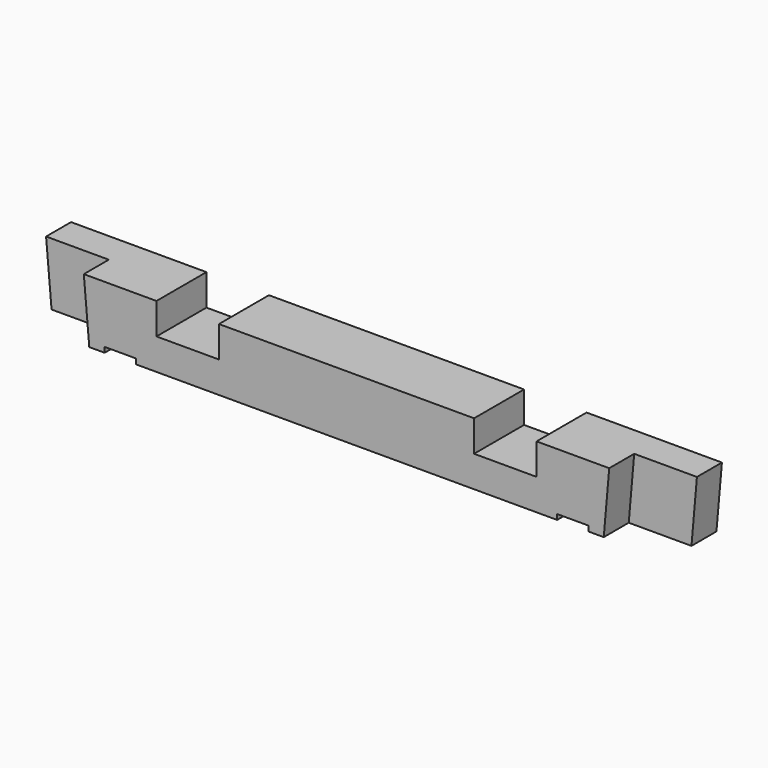
from build123d import *

# Parameters (mm, degrees)
F1_DEPTH  = 38.1
F3_DEPTH  = 19.05
F5_DEPTH  = 19.05
F6_W      = 38.1
F6_H      = 19.05
F7_DEPTH  = 38.1
F8_W      = 19.05
F8_H      = 3.175
F9_DEPTH  = 38.1
F10_W     = 19.05
F10_H     = 3.175
F11_DEPTH = 38.1
F12_W     = 38.1
F12_H     = 19.05
F13_DEPTH = 38.1


with BuildPart() as f1:
    # F0 (on Front) → F1 (new body)
    with BuildSketch(Plane.XZ):
        Polygon((396.875, 0), (0, 0), (3.333318, -38.1), (393.541682, -38.1), align=None)
    extrude(amount=F1_DEPTH)

    # F2 (on face) → F3 (cut)
    with BuildSketch(Plane.XZ.offset(38.1)):
        Polygon((396.875, 0), (358.629464, 0), (355.296146, -38.1), (393.541682, -38.1), align=None)
    extrude(amount=-F3_DEPTH, mode=Mode.SUBTRACT)

    # F4 (on face) → F5 (cut)
    with BuildSketch(Plane.XZ.offset(38.1)):
        Polygon((41.578854, -38.1), (38.245536, 0), (0, 0), (3.333318, -38.1), align=None)
    extrude(amount=-F5_DEPTH, mode=Mode.SUBTRACT)

    # F6 (on face) → F7 (cut)
    with BuildSketch(Plane.XZ.offset(38.1)):
        with Locations((295.275, -9.525)):
            Rectangle(F6_W, F6_H)
    extrude(amount=-F7_DEPTH, mode=Mode.SUBTRACT)

    # F8 (on face) → F9 (cut)
    with BuildSketch(Plane.XZ.offset(38.1)):
        with Locations((60.483318, -36.5125)):
            Rectangle(F8_W, F8_H)
    extrude(amount=-F9_DEPTH, mode=Mode.SUBTRACT)

    # F10 (on face) → F11 (cut)
    with BuildSketch(Plane.XZ.offset(38.1)):
        with Locations((336.391682, -36.5125)):
            Rectangle(F10_W, F10_H)
    extrude(amount=-F11_DEPTH, mode=Mode.SUBTRACT)

    # F12 (on face) → F13 (cut)
    with BuildSketch(Plane.XZ.offset(38.1)):
        with Locations((101.6, -9.525)):
            Rectangle(F12_W, F12_H)
    extrude(amount=-F13_DEPTH, mode=Mode.SUBTRACT)


solid = f1.part
